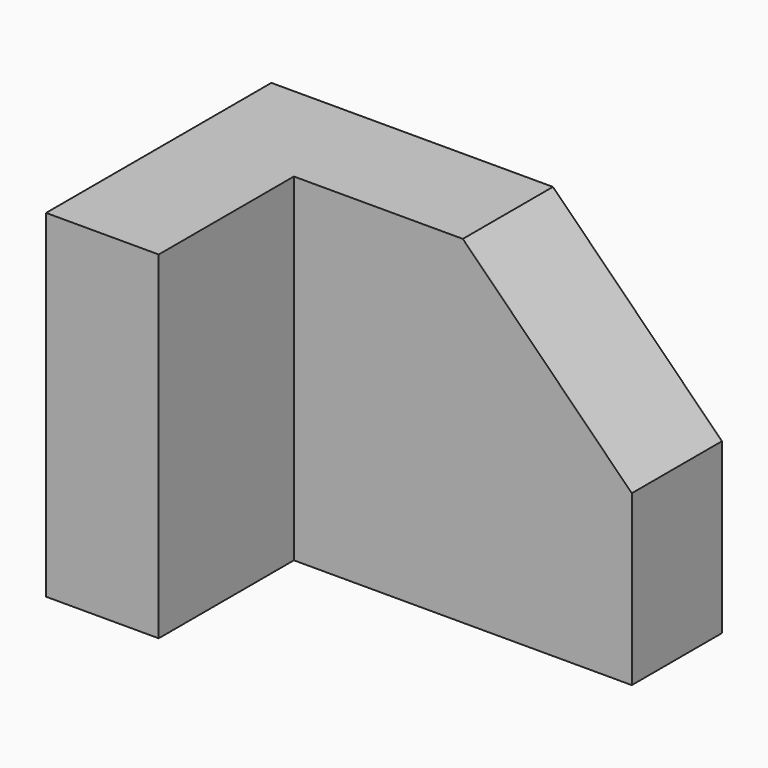
from build123d import *

# Parameters (mm, degrees)
F0_W     = 20
F0_H     = 60
F1_DEPTH = 20
F2_W     = 20
F2_H     = 60
F3_DEPTH = 30


with BuildPart() as f1:
    # F0 (on Front) → F1 (new body)
    with BuildSketch(Plane.XZ):
        with Locations((-30, 0)):
            Rectangle(F0_W, F0_H)
        Polygon((40, 0), (10, 30), (-20, 30), (-20, -30), (40, -30), align=None)
    extrude(amount=F1_DEPTH)

    # F2 (on face) → F3 (join)
    with BuildSketch(Plane.XZ.offset(20)):
        with Locations((-30, 0)):
            Rectangle(F2_W, F2_H)
    extrude(amount=F3_DEPTH)


solid = f1.part
